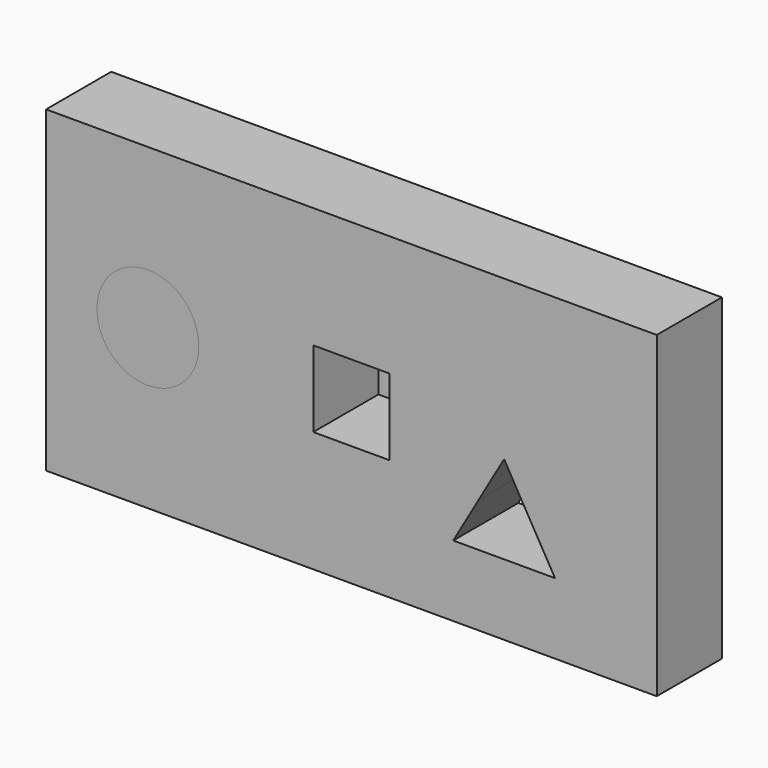
from build123d import *

# Parameters (mm, degrees)
F0_R          = 12.7
F1_DEPTH      = 20.32
F2_DEPTH      = 31.75
F2_DEPTH_BACK = 20.32
F3_DEPTH      = 31.75


with BuildPart() as f1:
    # F0 (on Front) → F1 (new body)
    with BuildSketch(Plane.XZ):
        Polygon((-107.95, -39.6875), (0, -39.6875), (44.45, -39.6875), (44.45, 39.6875), (-107.95, 39.6875), align=None)
        Polygon((0, -10.9985226281), (0, 0), (6.35, 0), (19.05, -21.9970452561), (0, -21.9970452561), (-6.35, -21.9970452561), align=None, mode=Mode.SUBTRACT)
        with Locations((-82.55, 0)):
            Circle(F0_R, mode=Mode.SUBTRACT)
        Polygon((-22.225, 9.525), (-22.225, 0), (-22.225, -9.525), (-41.275, -9.525), (-41.275, 0), (-41.275, 9.525), align=None, mode=Mode.SUBTRACT)
        Polygon((6.35, 0), (0, 0), (0, -10.9985226281), align=None)
    extrude(amount=F1_DEPTH)


with BuildPart() as f2:
    # F0 (on Front) → F2 (new body, two sides)
    with BuildSketch(Plane.XZ) as f2_sk:
        with Locations((-82.55, 0)):
            Circle(F0_R)
    extrude(amount=-F2_DEPTH)
    extrude(f2_sk.sketch, amount=F2_DEPTH_BACK)


with BuildPart() as f3:
    # F0 (on Front) → F3 (new body)
    with BuildSketch(Plane.XZ):
        Polygon((-22.225, -9.525), (-22.225, 0), (-31.75, 0), (-41.275, 0), (-41.275, -9.525), align=None)
        Polygon((-31.75, 0), (-22.225, 0), (-22.225, 9.525), (-41.275, 9.525), (-41.275, 0), align=None)
    extrude(amount=-F3_DEPTH)


solid = Compound([f1.part, f2.part, f3.part])
